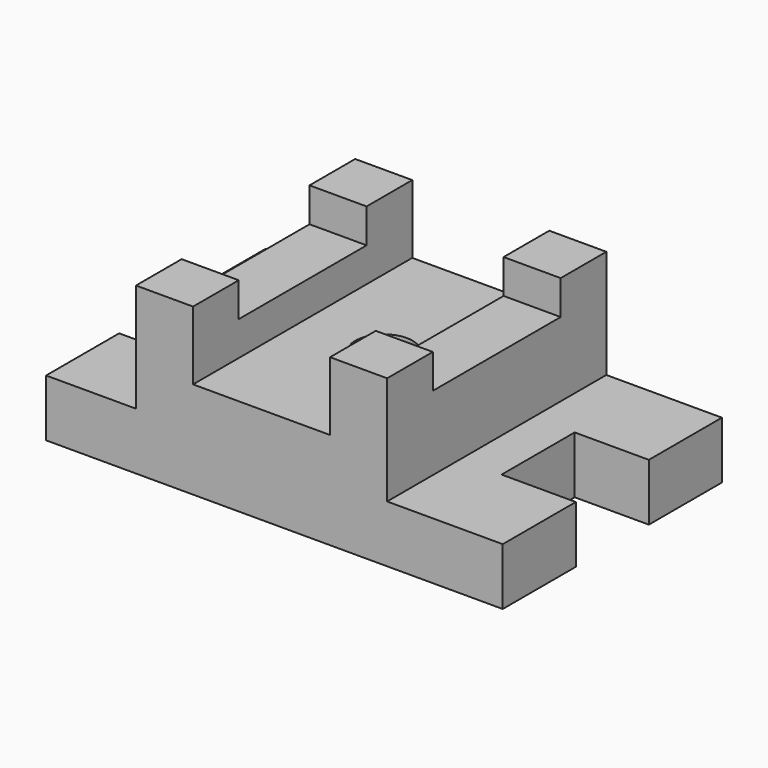
from build123d import *

# Parameters (mm, degrees)
F0_R     = 15.875
F2_DEPTH = 31.75
F3_DEPTH = 76.2
F4_W     = 31.75
F4_H     = 88.9
F5_DEPTH = 19.05
F6_DEPTH = 214.376


with BuildPart() as f2:
    # F0 (on Top) → F2 (new body)
    with BuildSketch(Plane.XY):
        Polygon((-127, -76.2), (127, -76.2), (127, -25.4), (85.725, -25.4), (85.725, 25.4), (127, 25.4), (127, 76.2), (-127, 76.2), (-127, 25.4), (-85.725, 25.4), (-85.725, -25.4), (-127, -25.4), align=None)
        Circle(F0_R, mode=Mode.SUBTRACT)
    extrude(amount=F2_DEPTH)

    # F1 (on Front) → F3 (join, symmetric)
    with BuildSketch(Plane.XZ):
        Polygon((-45.244894, 92.075), (-76.994894, 92.075), (-76.994894, 31.75), (62.705106, 31.75), (62.705106, 92.075), (30.955106, 92.075), (30.955106, 53.975), (0, 53.975), (-45.244894, 53.975), align=None)
    extrude(amount=F3_DEPTH, both=True)

    # F4 (on face) → F5 (cut)
    with BuildSketch(Plane.XY.offset(92.075)):
        with Locations((-61.119894, 0)):
            Rectangle(F4_W, F4_H)
        with Locations((46.830106, 0)):
            Rectangle(F4_W, F4_H)
    extrude(amount=-F5_DEPTH, mode=Mode.SUBTRACT)

    # F0 (on Top) → F6 (cut)
    with BuildSketch(Plane.XY):
        Circle(F0_R)
    extrude(amount=F6_DEPTH, mode=Mode.SUBTRACT)


solid = f2.part
